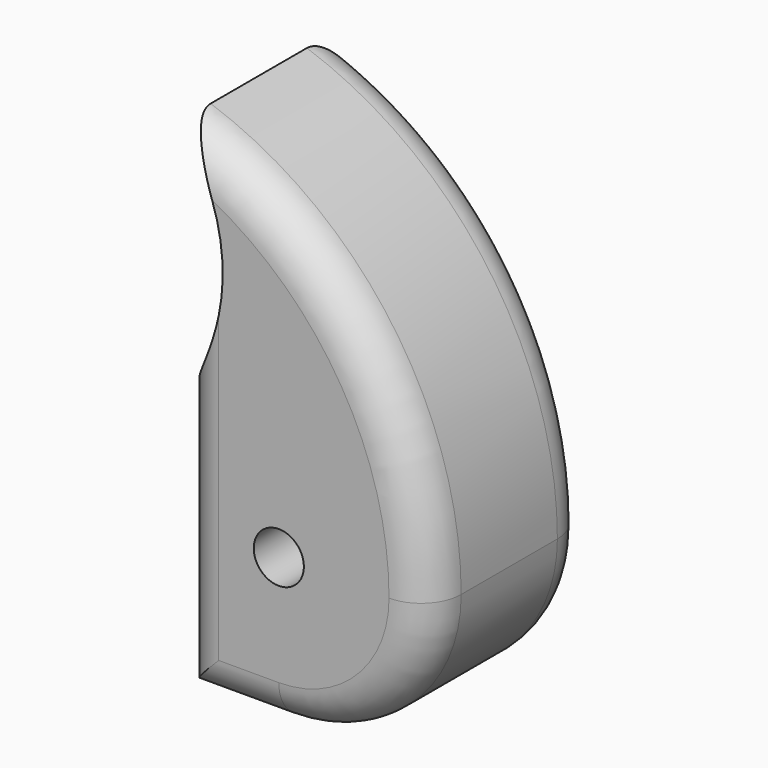
from build123d import *

# Parameters (mm, degrees)
F0_R     = 3.175
F1_DEPTH = 25.4
F2_R     = 5.08
F3_R     = 5.08


with BuildPart() as f1:
    # F0 (on Front) → F1 (new body)
    with BuildSketch(Plane.XZ):
        with BuildLine():
            Line((-31.75, 0), (-19.05, 0))
            ThreePointArc((-19.05, 0), (-5.579616, 5.579616), (0, 19.05))
            ThreePointArc((0, 19.05), (-11.27287, 36.440191), (-31.75, 33.249032))
            Line((-31.75, 33.249032), (-31.75, 0))
        make_face()
        with Locations((-19.05, 19.05)):
            Circle(F0_R, mode=Mode.SUBTRACT)
        with BuildLine():
            ThreePointArc((-31.75, 33.249032), (-11.27287, 36.440191), (0, 19.05))
            ThreePointArc((0, 19.05), (-8.752664, 46.362383), (-31.75, 63.5))
            ThreePointArc((-31.75, 63.5), (-26.160526, 48.374516), (-31.75, 33.249032))
        make_face()
    extrude(amount=F1_DEPTH)

    # F2
    f2_edges = [f1.edges().sort_by_distance(p)[0] for p in [
        (-31.75, -25.4, 16.624516),
        (-25.4, -25.4, 0),
    ]]
    fillet(f2_edges, radius=F2_R)

    # F3
    f3_edges = [f1.edges().sort_by_distance(p)[0] for p in [
        (-31.75, 0, 16.624516),
        (-25.4, 0, 0),
    ]]
    fillet(f3_edges, radius=F3_R)


solid = f1.part
